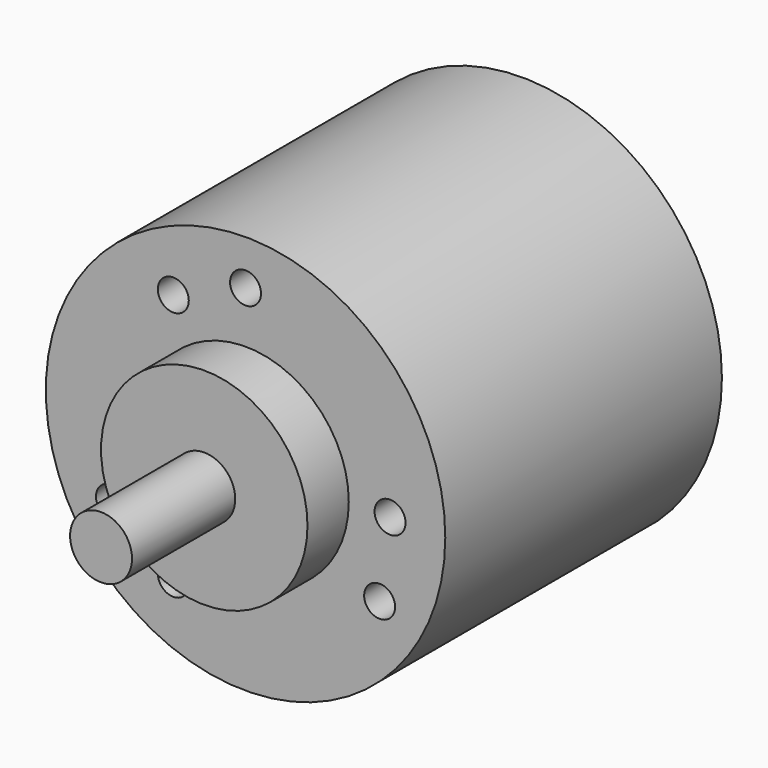
from build123d import *

# Parameters (mm, degrees)
SKETCH_R     = 19.35
PAD_DEPTH    = 33.5
SKETCH001_R  = 10
PAD001_DEPTH = 5
SKETCH002_R  = 3
PAD002_DEPTH = 12.5
SKETCH003_R  = 1.5
POCKET_DEPTH = 10


with BuildPart() as part:
    # Sketch → Pad (new body)
    with BuildSketch(Plane.XZ):
        Circle(SKETCH_R)
    extrude(amount=PAD_DEPTH)

    # Sketch001 (on Face3 of Pad) → Pad001 (join)
    with BuildSketch(Plane.XZ.offset(33.5)):
        Circle(SKETCH001_R)
    extrude(amount=PAD001_DEPTH)

    # Sketch002 (on Face5 of Pad001) → Pad002 (join)
    with BuildSketch(Plane.XZ.offset(38.5)):
        Circle(SKETCH002_R)
    extrude(amount=PAD002_DEPTH)

    # Sketch003 (on Face3 of Pad002) → Pocket (cut)
    with BuildSketch(Plane.XZ.offset(33.5)):
        with Locations((14, 0)):
            Circle(SKETCH003_R)
        with Locations((-12.990382, -7.499998)):
            Circle(SKETCH003_R)
        with Locations((-6.999999, -12.124356)):
            Circle(SKETCH003_R)
        with Locations((12.990379, -7.500003)):
            Circle(SKETCH003_R)
        with Locations((0, 15)):
            Circle(SKETCH003_R)
        with Locations((-6.999999, 12.124356)):
            Circle(SKETCH003_R)
    extrude(amount=-POCKET_DEPTH, mode=Mode.SUBTRACT)


solid = part.part
